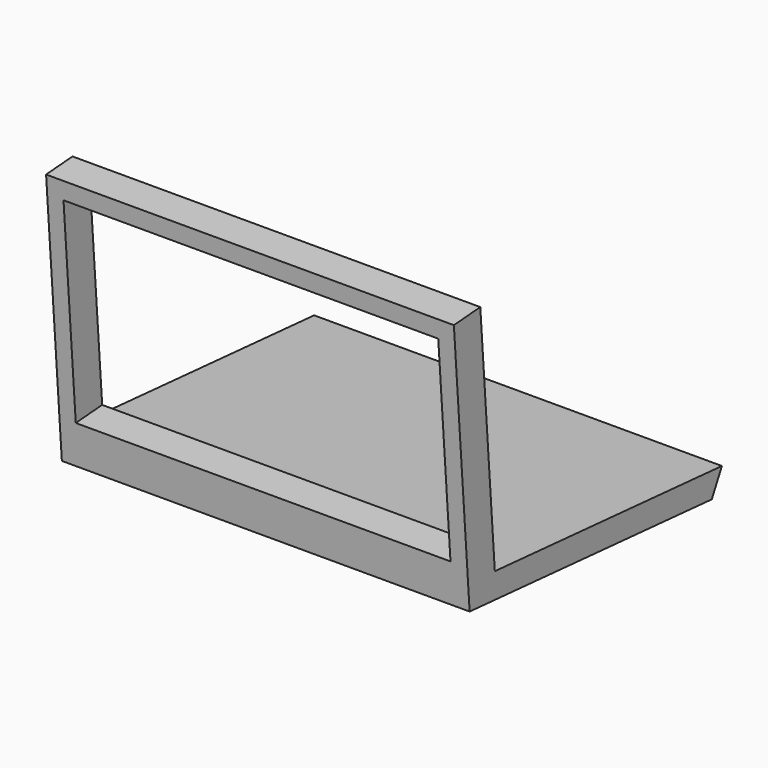
from build123d import *

# Parameters (mm, degrees)
F1_DEPTH = 47.752
F2_W     = 87.7630114555
F2_H     = 47.5155450404
F3_DEPTH = 32.004


with BuildPart() as f1:
    # F0 (on Right) → F1 (new body, symmetric)
    with BuildSketch(Plane.YZ):
        Polygon((-31.8501219153, 36.2352915108), (-27.2341612726, -24.6953871101), (43.6497934896, -30.3766369124), (46.6212034225, -24.6953871101), (-19.860636737, -19.3669606344), (-24.1173089374, 36.8211106937), align=None)
    extrude(amount=F1_DEPTH, both=True)

    # F2 (on face) → F3 (cut)
    with BuildSketch(Plane(origin=(0, -21.2061243549, -1.6065246214), x_dir=(-1, 0, 0), z_dir=(0, 0.9971426879, 0.075541115))):
        with Locations((0.0438690186, 10.5752218515)):
            Rectangle(F2_W, F2_H)
    extrude(amount=-F3_DEPTH, mode=Mode.SUBTRACT)


solid = f1.part
